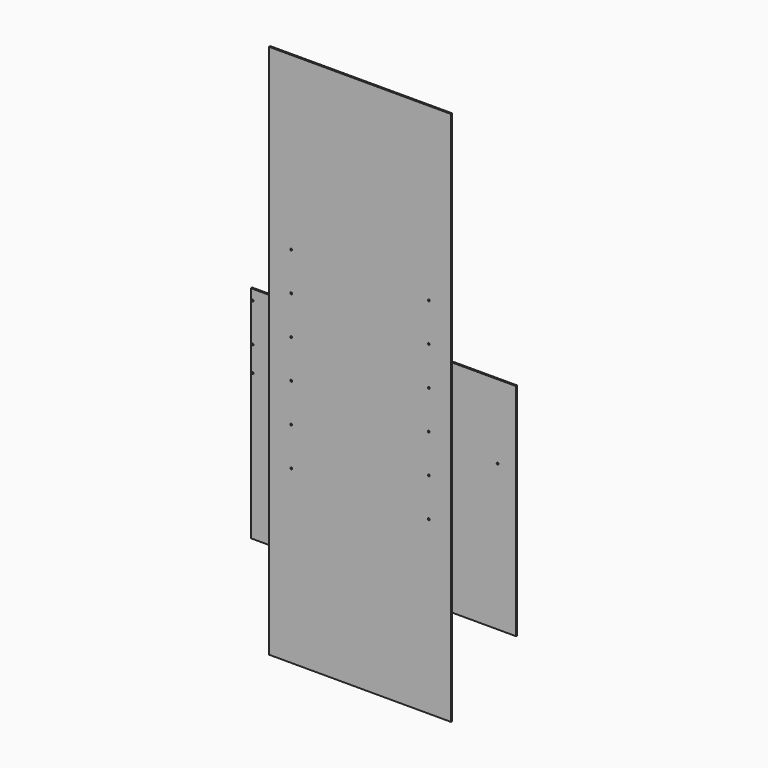
from build123d import *

# Parameters (mm, degrees)
F0_W      = 867
F0_H      = 255
F0_H_2    = 465
F1_DEPTH  = 5
F3_W      = 595
F3_H      = 820
F4_DEPTH  = 5
F5_R      = 3
F6_DEPTH  = 5
F7_R      = 3
F8_DEPTH  = 25
F9_W      = 595
F9_H      = 465
F10_DEPTH = 5


with BuildPart() as f1:
    # F0 (on Front) → F1 (new body)
    with BuildSketch(Plane.XZ):
        with Locations((36.5, 0)):
            Rectangle(F0_W, F0_H)
        with Locations((36.5, -360)):
            Rectangle(F0_W, F0_H_2)
    extrude(amount=F1_DEPTH)

    # F5 (on face) → F6 (cut)
    with BuildSketch(Plane.XZ.offset(5)):
        with Locations((-220, -115)):
            Circle(F5_R)
        with Locations((-10, -115)):
            Circle(F5_R)
        with Locations((200, -115)):
            Circle(F5_R)
        with Locations((410, -115)):
            Circle(F5_R)
        with Locations((-391, 93.5)):
            Circle(F5_R)
        with Locations((-391, -32.5)):
            Circle(F5_R)
        with Locations((-391, -115)):
            Circle(F5_R)
    extrude(amount=-F6_DEPTH, mode=Mode.SUBTRACT)


with BuildPart() as f4:
    # F3 (on offset) → F4 (new body)
    with BuildSketch(Plane.XZ.offset(50)):
        Rectangle(F3_W, F3_H)
    extrude(amount=F4_DEPTH)

    # F7 (on face) → F8 (cut)
    with BuildSketch(Plane.XZ.offset(55)):
        with Locations((-225, -315)):
            Circle(F7_R)
        with Locations((-225, -189)):
            Circle(F7_R)
        with Locations((-225, -63)):
            Circle(F7_R)
        with Locations((-225, 63)):
            Circle(F7_R)
        with Locations((-225, 189)):
            Circle(F7_R)
        with Locations((-225, 315)):
            Circle(F7_R)
        with Locations((225, 315)):
            Circle(F7_R)
        with Locations((225, 189)):
            Circle(F7_R)
        with Locations((225, 63)):
            Circle(F7_R)
        with Locations((225, -63)):
            Circle(F7_R)
        with Locations((225, -189)):
            Circle(F7_R)
        with Locations((225, -315)):
            Circle(F7_R)
    extrude(amount=-F8_DEPTH, mode=Mode.SUBTRACT)

    # F9 (on face) → F10 (join)
    with BuildSketch(Plane(origin=(0, -50, 0), x_dir=(-1, 0, 0), z_dir=(0, 1, 0))):
        with Locations((0, -642.5)):
            Rectangle(F9_W, F9_H)
        with Locations((0, 642.5)):
            Rectangle(F9_W, F9_H)
    extrude(amount=-F10_DEPTH)


solid = Compound([f1.part, f4.part])
